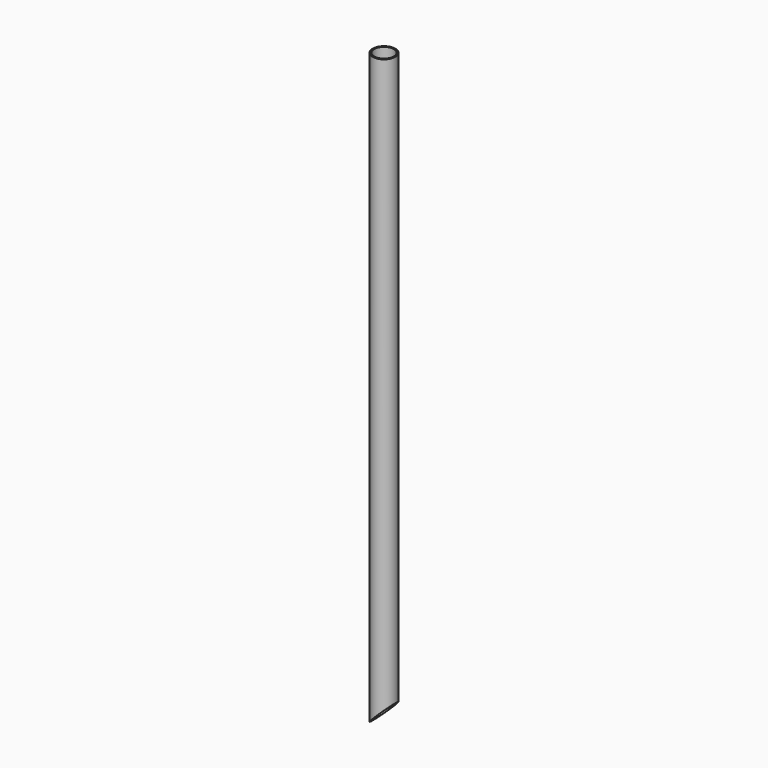
from build123d import *

# Parameters (mm, degrees)
F0_R     = 30.226
F0_R_2   = 26.2509
F1_DEPTH = 1584.452
F3_DEPTH = 103.124


with BuildPart() as f1:
    # F0 (on Top) → F1 (new body)
    with BuildSketch(Plane.XY):
        with Locations((-125.815094, -56.057207)):
            Circle(F0_R)
        with Locations((-125.815094, -56.057207)):
            Circle(F0_R_2, mode=Mode.SUBTRACT)
    extrude(amount=F1_DEPTH)

    # F2 (on Front) → F3 (cut)
    with BuildSketch(Plane.XZ):
        Polygon((-89.987062, 69.129817), (-159.116879, 0), (-88.816114, 0), align=None)
    extrude(amount=F3_DEPTH, mode=Mode.SUBTRACT)


solid = f1.part
